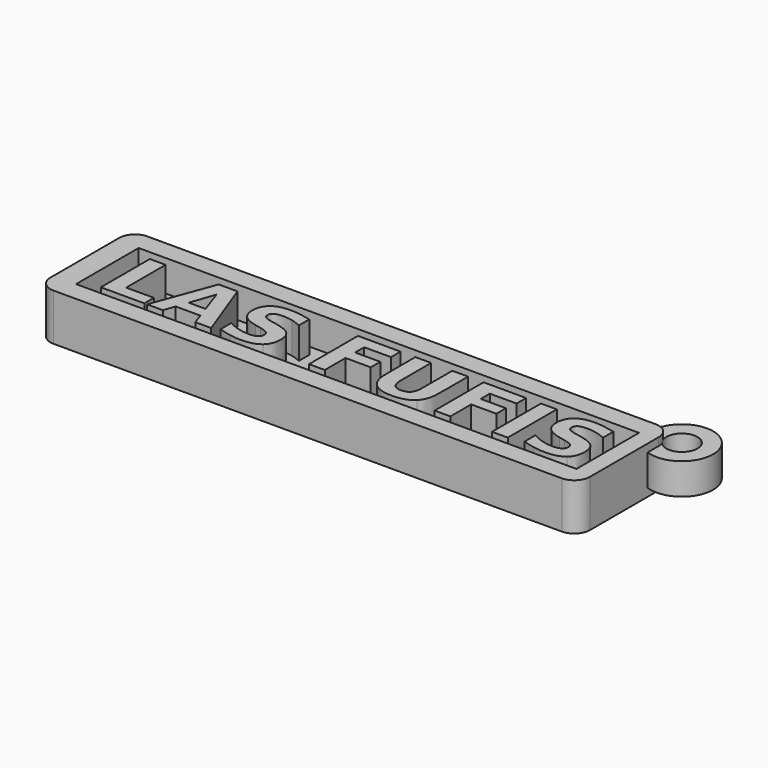
from build123d import *

# Parameters (mm, degrees)
CYLINDER001_R     = 2
CYLINDER001_DEPTH = 10
CYLINDER_R        = 4
CYLINDER_DEPTH    = 4
EXTRUDE002_DEPTH  = 4
EXTRUDE001_DEPTH  = 4
EXTRUDE003_DEPTH  = 4
EXTRUDE006_DEPTH  = 4
EXTRUDE004_DEPTH  = 4
EXTRUDE005_DEPTH  = 4
EXTRUDE007_DEPTH  = 4
EXTRUDE008_DEPTH  = 4
EXTRUDE_DEPTH     = 4
SKETCH_W          = 64
SKETCH_H          = 10
PAD_DEPTH         = 4
SKETCH001_W       = 69
SKETCH001_H       = 15
PAD001_DEPTH      = 6
FILLET_R          = 2
FILLET001_R       = 2


with BuildPart() as cilindro001:
    # Cylinder001 → Cylinder001 (new body)
    with BuildSketch(Plane.XY.offset(-3)):
        Circle(CYLINDER001_R)
    extrude(amount=CYLINDER001_DEPTH)


with BuildPart() as obj1:
    # Cylinder → Cylinder (new body)
    with BuildSketch(Plane.XY):
        Circle(CYLINDER_R)
    extrude(amount=CYLINDER_DEPTH)

    # Cut005: cut Cilindro001
    add(cilindro001.part, mode=Mode.SUBTRACT)


with BuildPart() as obj1_1:
    # Cut005 placement: moved
    add(obj1.part.moved(Location((41.3, 7.5, -1))))


with BuildPart() as extrude002:
    # path3343001 → Extrude002 (new body)
    with BuildSketch(Plane(origin=(-13.812976, 1.443679, 0), x_dir=(0, 1, 0), z_dir=(0, 0, 1))):
        with BuildLine():
            add(Edge.make_bspline(
                [(-1.557556, 1.072459), (-1.557556, -1.072459)],
                knots=[0, 0, 7.6001, 7.6001], degree=1))
            add(Edge.make_bspline(
                [(-1.557556, -1.072459), (1.557556, -0.002622)],
                knots=[0, 0, 11.6706, 11.6706], degree=1))
            add(Edge.make_bspline(
                [(1.557556, -0.002622), (-1.557556, 1.072459)],
                knots=[0, 0, 11.676648, 11.676648], degree=1))
        make_face()
    extrude(amount=EXTRUDE002_DEPTH)


with BuildPart() as cut:
    # path3343 → Extrude001 (new body)
    with BuildSketch(Plane(origin=(-13.812978, 0.921872, 0), x_dir=(0, -1, 0), z_dir=(0, 0, -1))):
        with BuildLine():
            add(Edge.make_bspline(
                [(2.488418, -1.581157), (2.488418, 1.575911)],
                knots=[0, 0, 11.18646, 11.18646], degree=1))
            add(Edge.make_bspline(
                [(2.488418, 1.575911), (3.914868, 2.074117)],
                knots=[0, 0, 5.353759, 5.353759], degree=1))
            add(Edge.make_bspline(
                [(3.914868, 2.074117), (3.914868, 4.103662)],
                knots=[0, 0, 7.1913, 7.1913], degree=1))
            add(Edge.make_bspline(
                [(3.914868, 4.103662), (-3.914868, 1.203566)],
                knots=[0, 0, 29.585092, 29.585092], degree=1))
            add(Edge.make_bspline(
                [(-3.914868, 1.203566), (-3.914868, -1.203566)],
                knots=[0, 0, 8.52921, 8.52921], degree=1))
            add(Edge.make_bspline(
                [(-3.914868, -1.203566), (3.914868, -4.103662)],
                knots=[0, 0, 29.585092, 29.585092], degree=1))
            add(Edge.make_bspline(
                [(3.914868, -4.103662), (3.914868, -2.07412)],
                knots=[0, 0, 7.19129, 7.19129], degree=1))
            add(Edge.make_bspline(
                [(3.914868, -2.07412), (2.488418, -1.581157)],
                knots=[0, 0, 5.347661, 5.347661], degree=1))
        make_face()
    extrude(amount=-EXTRUDE001_DEPTH)

    # Cut: cut Extrude002
    add(extrude002.part, mode=Mode.SUBTRACT)


with BuildPart() as extrude003:
    # path3345 → Extrude003 (new body)
    with BuildSketch(Plane(origin=(-5.802313, 0.916629, 0), x_dir=(0, -1, 0), z_dir=(0, 0, -1))):
        with BuildLine():
            add(Edge.make_bspline(
                [(-3.67363, -2.57495), (-2.016433, -2.57495)],
                knots=[0, 0, 5.87196, 5.87196], degree=1))
            add(Edge.make_bspline(
                [(-2.016433, -2.57495), (-2.304867, -1.929901), (-2.451707, -1.316318)],
                knots=[0, 0, 0, 1, 1, 1], degree=2))
            add(Edge.make_bspline(
                [(-2.451707, -1.316318), (-2.598547, -0.702736), (-2.598547, -0.157328)],
                knots=[0, 0, 0, 1, 1, 1], degree=2))
            add(Edge.make_bspline(
                [(-2.598547, -0.157328), (-2.598547, 0.566386), (-2.399264, 0.912509)],
                knots=[0, 0, 0, 1, 1, 1], degree=2))
            add(Edge.make_bspline(
                [(-2.399264, 0.912509), (-2.199981, 1.258632), (-1.780438, 1.258632)],
                knots=[0, 0, 0, 1, 1, 1], degree=2))
            add(Edge.make_bspline(
                [(-1.780438, 1.258632), (-1.46578, 1.258632), (-1.287475, 1.027881)],
                knots=[0, 0, 0, 1, 1, 1], degree=2))
            add(Edge.make_bspline(
                [(-1.287475, 1.027881), (-1.114414, 0.79189), (-0.988548, 0.178308)],
                knots=[0, 0, 0, 1, 1, 1], degree=2))
            add(Edge.make_bspline(
                [(-0.988548, 0.178308), (-0.815487, -0.681759)],
                knots=[0, 0, 3.108563, 3.108563], degree=1))
            add(Edge.make_bspline(
                [(-0.815487, -0.681759), (-0.553271, -1.987587), (-0.018356, -2.538239)],
                knots=[0, 0, 0, 1, 1, 1], degree=2))
            add(Edge.make_bspline(
                [(-0.018356, -2.538239), (0.516563, -3.088891), (1.502492, -3.088891)],
                knots=[0, 0, 0, 1, 1, 1], degree=2))
            add(Edge.make_bspline(
                [(1.502492, -3.088891), (2.797833, -3.088891), (3.432392, -2.317979)],
                knots=[0, 0, 0, 1, 1, 1], degree=2))
            add(Edge.make_bspline(
                [(3.432392, -2.317979), (4.061708, -1.552313), (4.061708, 0.026221)],
                knots=[0, 0, 0, 1, 1, 1], degree=2))
            add(Edge.make_bspline(
                [(4.061708, 0.026221), (4.061708, 0.770913), (3.920112, 1.520848)],
                knots=[0, 0, 0, 1, 1, 1], degree=2))
            add(Edge.make_bspline(
                [(3.920112, 1.520848), (3.778515, 2.270783), (3.500569, 3.020715)],
                knots=[0, 0, 0, 1, 1, 1], degree=2))
            add(Edge.make_bspline(
                [(3.500569, 3.020715), (1.796172, 3.020715)],
                knots=[0, 0, 6.0392, 6.0392], degree=1))
            add(Edge.make_bspline(
                [(1.796172, 3.020715), (2.194738, 2.270783), (2.399267, 1.57329)],
                knots=[0, 0, 0, 1, 1, 1], degree=2))
            add(Edge.make_bspline(
                [(2.399267, 1.57329), (2.59855, 0.870554), (2.59855, 0.22026)],
                knots=[0, 0, 0, 1, 1, 1], degree=2))
            add(Edge.make_bspline(
                [(2.59855, 0.22026), (2.59855, -0.440521), (2.37829, -0.791887)],
                knots=[0, 0, 0, 1, 1, 1], degree=2))
            add(Edge.make_bspline(
                [(2.37829, -0.791887), (2.158029, -1.143257), (1.748974, -1.143257)],
                knots=[0, 0, 0, 1, 1, 1], degree=2))
            add(Edge.make_bspline(
                [(1.748974, -1.143257), (1.381873, -1.143257), (1.18259, -0.902019)],
                knots=[0, 0, 0, 1, 1, 1], degree=2))
            add(Edge.make_bspline(
                [(1.18259, -0.902019), (0.983307, -0.666025), (0.825977, 0.047199)],
                knots=[0, 0, 0, 1, 1, 1], degree=2))
            add(Edge.make_bspline(
                [(0.825977, 0.047199), (0.652916, 0.828599)],
                knots=[0, 0, 2.835833, 2.835833], degree=1))
            add(Edge.make_bspline(
                [(0.652916, 0.828599), (0.40119, 2.003323), (-0.149462, 2.548729)],
                knots=[0, 0, 0, 1, 1, 1], degree=2))
            add(Edge.make_bspline(
                [(-0.149462, 2.548729), (-0.700114, 3.088891), (-1.633598, 3.088891)],
                knots=[0, 0, 0, 1, 1, 1], degree=2))
            add(Edge.make_bspline(
                [(-1.633598, 3.088891), (-2.803076, 3.088891), (-3.432392, 2.333712)],
                knots=[0, 0, 0, 1, 1, 1], degree=2))
            add(Edge.make_bspline(
                [(-3.432392, 2.333712), (-4.061708, 1.578534), (-4.061708, 0.162574)],
                knots=[0, 0, 0, 1, 1, 1], degree=2))
            add(Edge.make_bspline(
                [(-4.061708, 0.162574), (-4.061708, -0.482476), (-3.962064, -1.164234)],
                knots=[0, 0, 0, 1, 1, 1], degree=2))
            add(Edge.make_bspline(
                [(-3.962064, -1.164234), (-3.867669, -1.845993), (-3.67363, -2.57495)],
                knots=[0, 0, 0, 1, 1, 1], degree=2))
        make_face()
    extrude(amount=-EXTRUDE003_DEPTH)


with BuildPart() as extrude006:
    # path3351 → Extrude006 (new body)
    with BuildSketch(Plane(origin=(21.591268, 0.921872, 0), x_dir=(0, -1, 0), z_dir=(0, 0, -1))):
        with BuildLine():
            add(Edge.make_bspline(
                [(-3.914868, 2.724412), (-3.914868, -2.724412)],
                knots=[0, 0, 19.30686, 19.30686], degree=1))
            add(Edge.make_bspline(
                [(-3.914868, -2.724412), (-2.388777, -2.724412)],
                knots=[0, 0, 5.40741, 5.40741], degree=1))
            add(Edge.make_bspline(
                [(-2.388777, -2.724412), (-2.388777, 0.705358)],
                knots=[0, 0, 12.15273, 12.15273], degree=1))
            add(Edge.make_bspline(
                [(-2.388777, 0.705358), (-0.930862, 0.705358)],
                knots=[0, 0, 5.16584, 5.16584], degree=1))
            add(Edge.make_bspline(
                [(-0.930862, 0.705358), (-0.930862, -2.519886)],
                knots=[0, 0, 11.42803, 11.42803], degree=1))
            add(Edge.make_bspline(
                [(-0.930862, -2.519886), (0.595227, -2.519886)],
                knots=[0, 0, 5.4074, 5.4074], degree=1))
            add(Edge.make_bspline(
                [(0.595227, -2.519886), (0.595227, 0.705358)],
                knots=[0, 0, 11.42803, 11.42803], degree=1))
            add(Edge.make_bspline(
                [(0.595227, 0.705358), (3.914868, 0.705358)],
                knots=[0, 0, 11.76251, 11.76251], degree=1))
            add(Edge.make_bspline(
                [(3.914868, 0.705358), (3.914868, 2.724412)],
                knots=[0, 0, 7.15413, 7.15413], degree=1))
            add(Edge.make_bspline(
                [(3.914868, 2.724412), (-3.914868, 2.724412)],
                knots=[0, 0, 27.74316, 27.74316], degree=1))
        make_face()
    extrude(amount=-EXTRUDE006_DEPTH)


with BuildPart() as extrude004:
    # path3347 → Extrude004 (new body)
    with BuildSketch(Plane(origin=(5.522745, 0.921872, 0), x_dir=(0, -1, 0), z_dir=(0, 0, -1))):
        with BuildLine():
            add(Edge.make_bspline(
                [(-3.914868, 2.724413), (-3.914868, -2.724413)],
                knots=[0, 0, 19.30686, 19.30686], degree=1))
            add(Edge.make_bspline(
                [(-3.914868, -2.724413), (-2.388777, -2.724413)],
                knots=[0, 0, 5.40741, 5.40741], degree=1))
            add(Edge.make_bspline(
                [(-2.388777, -2.724413), (-2.388777, 0.705358)],
                knots=[0, 0, 12.15273, 12.15273], degree=1))
            add(Edge.make_bspline(
                [(-2.388777, 0.705358), (-0.930862, 0.705358)],
                knots=[0, 0, 5.16584, 5.16584], degree=1))
            add(Edge.make_bspline(
                [(-0.930862, 0.705358), (-0.930862, -2.519883)],
                knots=[0, 0, 11.42802, 11.42802], degree=1))
            add(Edge.make_bspline(
                [(-0.930862, -2.519883), (0.595227, -2.519883)],
                knots=[0, 0, 5.4074, 5.4074], degree=1))
            add(Edge.make_bspline(
                [(0.595227, -2.519883), (0.595227, 0.705358)],
                knots=[0, 0, 11.42802, 11.42802], degree=1))
            add(Edge.make_bspline(
                [(0.595227, 0.705358), (3.914868, 0.705358)],
                knots=[0, 0, 11.76251, 11.76251], degree=1))
            add(Edge.make_bspline(
                [(3.914868, 0.705358), (3.914868, 2.724413)],
                knots=[0, 0, 7.15413, 7.15413], degree=1))
            add(Edge.make_bspline(
                [(3.914868, 2.724413), (-3.914868, 2.724413)],
                knots=[0, 0, 27.74316, 27.74316], degree=1))
        make_face()
    extrude(amount=-EXTRUDE004_DEPTH)


with BuildPart() as extrude005:
    # path3349 → Extrude005 (new body)
    with BuildSketch(Plane(origin=(13.515053, 0.84583, 0), x_dir=(0, -1, 0), z_dir=(0, 0, -1))):
        with BuildLine():
            add(Edge.make_bspline(
                [(-3.99091, 3.374706), (-3.99091, 1.355652)],
                knots=[0, 0, 7.15413, 7.15413], degree=1))
            add(Edge.make_bspline(
                [(-3.99091, 1.355652), (0.702736, 1.355652)],
                knots=[0, 0, 16.63103, 16.63103], degree=1))
            add(Edge.make_bspline(
                [(0.702736, 1.355652), (1.672932, 1.355652), (2.092475, 1.040994)],
                knots=[0, 0, 0, 1, 1, 1], degree=2))
            add(Edge.make_bspline(
                [(2.092475, 1.040994), (2.506774, 0.721092), (2.506774, 0.002622)],
                knots=[0, 0, 0, 1, 1, 1], degree=2))
            add(Edge.make_bspline(
                [(2.506774, 0.002622), (2.506774, -0.721092), (2.092475, -1.03575)],
                knots=[0, 0, 0, 1, 1, 1], degree=2))
            add(Edge.make_bspline(
                [(2.092475, -1.03575), (1.672932, -1.355652), (0.702736, -1.355652)],
                knots=[0, 0, 0, 1, 1, 1], degree=2))
            add(Edge.make_bspline(
                [(0.702736, -1.355652), (-3.99091, -1.355652)],
                knots=[0, 0, 16.63103, 16.63103], degree=1))
            add(Edge.make_bspline(
                [(-3.99091, -1.355652), (-3.99091, -3.374706)],
                knots=[0, 0, 7.15413, 7.15413], degree=1))
            add(Edge.make_bspline(
                [(-3.99091, -3.374706), (0.702736, -3.374706)],
                knots=[0, 0, 16.63103, 16.63103], degree=1))
            add(Edge.make_bspline(
                [(0.702736, -3.374706), (2.365178, -3.374706), (3.178045, -2.540861)],
                knots=[0, 0, 0, 1, 1, 1], degree=2))
            add(Edge.make_bspline(
                [(3.178045, -2.540861), (3.99091, -1.707018), (3.99091, 0.002622)],
                knots=[0, 0, 0, 1, 1, 1], degree=2))
            add(Edge.make_bspline(
                [(3.99091, 0.002622), (3.99091, 1.707018), (3.178045, 2.540861)],
                knots=[0, 0, 0, 1, 1, 1], degree=2))
            add(Edge.make_bspline(
                [(3.178045, 2.540861), (2.365178, 3.374706), (0.702736, 3.374706)],
                knots=[0, 0, 0, 1, 1, 1], degree=2))
            add(Edge.make_bspline(
                [(0.702736, 3.374706), (-3.99091, 3.374706)],
                knots=[0, 0, 16.63103, 16.63103], degree=1))
        make_face()
    extrude(amount=-EXTRUDE005_DEPTH)


with BuildPart() as extrude007:
    # path3353 → Extrude007 (new body)
    with BuildSketch(Plane(origin=(27.218399, 0.921872, 0), x_dir=(0, -1, 0), z_dir=(0, 0, -1))):
        with BuildLine():
            add(Edge.make_bspline(
                [(-3.914868, 1.009527), (-3.914868, -1.009527)],
                knots=[0, 0, 7.154127, 7.154127], degree=1))
            add(Edge.make_bspline(
                [(-3.914868, -1.009527), (3.914868, -1.009527)],
                knots=[0, 0, 27.74316, 27.74316], degree=1))
            add(Edge.make_bspline(
                [(3.914868, -1.009527), (3.914868, 1.009527)],
                knots=[0, 0, 7.154127, 7.154127], degree=1))
            add(Edge.make_bspline(
                [(3.914868, 1.009527), (-3.914868, 1.009527)],
                knots=[0, 0, 27.74316, 27.74316], degree=1))
        make_face()
    extrude(amount=-EXTRUDE007_DEPTH)


with BuildPart() as extrude008:
    # path3355 → Extrude008 (new body)
    with BuildSketch(Plane(origin=(33.089393, 0.916629, 0), x_dir=(0, -1, 0), z_dir=(0, 0, -1))):
        with BuildLine():
            add(Edge.make_bspline(
                [(-3.67363, -2.574948), (-2.016433, -2.574948)],
                knots=[0, 0, 5.87196, 5.87196], degree=1))
            add(Edge.make_bspline(
                [(-2.016433, -2.574948), (-2.304867, -1.9299), (-2.451707, -1.316318)],
                knots=[0, 0, 0, 1, 1, 1], degree=2))
            add(Edge.make_bspline(
                [(-2.451707, -1.316318), (-2.598547, -0.702736), (-2.598547, -0.157328)],
                knots=[0, 0, 0, 1, 1, 1], degree=2))
            add(Edge.make_bspline(
                [(-2.598547, -0.157328), (-2.598547, 0.566386), (-2.399264, 0.912509)],
                knots=[0, 0, 0, 1, 1, 1], degree=2))
            add(Edge.make_bspline(
                [(-2.399264, 0.912509), (-2.199981, 1.258632), (-1.780438, 1.258632)],
                knots=[0, 0, 0, 1, 1, 1], degree=2))
            add(Edge.make_bspline(
                [(-1.780438, 1.258632), (-1.46578, 1.258632), (-1.287475, 1.027882)],
                knots=[0, 0, 0, 1, 1, 1], degree=2))
            add(Edge.make_bspline(
                [(-1.287475, 1.027882), (-1.114414, 0.79189), (-0.988548, 0.178308)],
                knots=[0, 0, 0, 1, 1, 1], degree=2))
            add(Edge.make_bspline(
                [(-0.988548, 0.178308), (-0.815487, -0.681759)],
                knots=[0, 0, 3.108563, 3.108563], degree=1))
            add(Edge.make_bspline(
                [(-0.815487, -0.681759), (-0.553271, -1.987587), (-0.018356, -2.538239)],
                knots=[0, 0, 0, 1, 1, 1], degree=2))
            add(Edge.make_bspline(
                [(-0.018356, -2.538239), (0.516563, -3.088891), (1.502492, -3.088891)],
                knots=[0, 0, 0, 1, 1, 1], degree=2))
            add(Edge.make_bspline(
                [(1.502492, -3.088891), (2.797833, -3.088891), (3.432392, -2.317979)],
                knots=[0, 0, 0, 1, 1, 1], degree=2))
            add(Edge.make_bspline(
                [(3.432392, -2.317979), (4.061708, -1.55231), (4.061708, 0.026221)],
                knots=[0, 0, 0, 1, 1, 1], degree=2))
            add(Edge.make_bspline(
                [(4.061708, 0.026221), (4.061708, 0.770913), (3.920112, 1.520848)],
                knots=[0, 0, 0, 1, 1, 1], degree=2))
            add(Edge.make_bspline(
                [(3.920112, 1.520848), (3.778515, 2.270783), (3.500569, 3.020715)],
                knots=[0, 0, 0, 1, 1, 1], degree=2))
            add(Edge.make_bspline(
                [(3.500569, 3.020715), (1.796172, 3.020715)],
                knots=[0, 0, 6.0392, 6.0392], degree=1))
            add(Edge.make_bspline(
                [(1.796172, 3.020715), (2.194738, 2.270783), (2.399267, 1.57329)],
                knots=[0, 0, 0, 1, 1, 1], degree=2))
            add(Edge.make_bspline(
                [(2.399267, 1.57329), (2.59855, 0.870554), (2.59855, 0.22026)],
                knots=[0, 0, 0, 1, 1, 1], degree=2))
            add(Edge.make_bspline(
                [(2.59855, 0.22026), (2.59855, -0.440521), (2.37829, -0.791887)],
                knots=[0, 0, 0, 1, 1, 1], degree=2))
            add(Edge.make_bspline(
                [(2.37829, -0.791887), (2.158029, -1.143257), (1.748974, -1.143257)],
                knots=[0, 0, 0, 1, 1, 1], degree=2))
            add(Edge.make_bspline(
                [(1.748974, -1.143257), (1.381873, -1.143257), (1.18259, -0.902019)],
                knots=[0, 0, 0, 1, 1, 1], degree=2))
            add(Edge.make_bspline(
                [(1.18259, -0.902019), (0.983307, -0.666025), (0.825977, 0.047199)],
                knots=[0, 0, 0, 1, 1, 1], degree=2))
            add(Edge.make_bspline(
                [(0.825977, 0.047199), (0.652916, 0.828599)],
                knots=[0, 0, 2.835833, 2.835833], degree=1))
            add(Edge.make_bspline(
                [(0.652916, 0.828599), (0.40119, 2.003323), (-0.149462, 2.548729)],
                knots=[0, 0, 0, 1, 1, 1], degree=2))
            add(Edge.make_bspline(
                [(-0.149462, 2.548729), (-0.700114, 3.088891), (-1.633598, 3.088891)],
                knots=[0, 0, 0, 1, 1, 1], degree=2))
            add(Edge.make_bspline(
                [(-1.633598, 3.088891), (-2.803076, 3.088891), (-3.432392, 2.333712)],
                knots=[0, 0, 0, 1, 1, 1], degree=2))
            add(Edge.make_bspline(
                [(-3.432392, 2.333712), (-4.061708, 1.578534), (-4.061708, 0.162574)],
                knots=[0, 0, 0, 1, 1, 1], degree=2))
            add(Edge.make_bspline(
                [(-4.061708, 0.162574), (-4.061708, -0.482476), (-3.962064, -1.164234)],
                knots=[0, 0, 0, 1, 1, 1], degree=2))
            add(Edge.make_bspline(
                [(-3.962064, -1.164234), (-3.867669, -1.845993), (-3.67363, -2.574948)],
                knots=[0, 0, 0, 1, 1, 1], degree=2))
        make_face()
    extrude(amount=-EXTRUDE008_DEPTH)


with BuildPart() as obj2:
    # path3341 → Extrude (new body)
    with BuildSketch(Plane(origin=(-21.039618, 0.921872, 0), x_dir=(0, -1, 0), z_dir=(0, 0, -1))):
        with BuildLine():
            add(Edge.make_bspline(
                [(-3.914868, 2.782099), (-3.914868, 0.763044)],
                knots=[0, 0, 7.15413, 7.15413], degree=1))
            add(Edge.make_bspline(
                [(-3.914868, 0.763044), (2.388777, 0.763044)],
                knots=[0, 0, 22.33575, 22.33575], degree=1))
            add(Edge.make_bspline(
                [(2.388777, 0.763044), (2.388777, -2.782099)],
                knots=[0, 0, 12.56153, 12.56153], degree=1))
            add(Edge.make_bspline(
                [(2.388777, -2.782099), (3.914868, -2.782099)],
                knots=[0, 0, 5.40741, 5.40741], degree=1))
            add(Edge.make_bspline(
                [(3.914868, -2.782099), (3.914868, 2.782099)],
                knots=[0, 0, 19.71566, 19.71566], degree=1))
            add(Edge.make_bspline(
                [(3.914868, 2.782099), (-3.914868, 2.782099)],
                knots=[0, 0, 27.74316, 27.74316], degree=1))
        make_face()
    extrude(amount=-EXTRUDE_DEPTH)

    # Fusion: union Cut, Extrude003, Extrude006, Extrude004, Extrude005, Extrude007, Extrude008
    add(cut.part)
    add(extrude003.part)
    add(extrude006.part)
    add(extrude004.part)
    add(extrude005.part)
    add(extrude007.part)
    add(extrude008.part)


with BuildPart() as obj2_1:
    # Fusion placement: moved
    add(obj2.part.moved(Location((0, -1, 0))))


with BuildPart() as pad:
    # Sketch → Pad (new body)
    with BuildSketch(Plane.XY):
        with Locations((5.818163, 0)):
            Rectangle(SKETCH_W, SKETCH_H)
    extrude(amount=PAD_DEPTH)


with BuildPart() as fusion001:
    # Sketch001 → Pad001 (new body)
    with BuildSketch(Plane.XY.offset(-2)):
        with Locations((5.436984, 0)):
            Rectangle(SKETCH001_W, SKETCH001_H)
    extrude(amount=PAD001_DEPTH)

    # Cut001: cut Pad
    add(pad.part, mode=Mode.SUBTRACT)

    # Fillet
    fillet_edges = [fusion001.edges().sort_by_distance(p)[0] for p in [
        (-29.063016, 7.5, 1),
        (-29.063016, -7.5, 1),
        (39.936984, -7.5, 1),
    ]]
    fillet(fillet_edges, radius=FILLET_R)

    # Fillet001
    fillet001_edges = [fusion001.edges().sort_by_distance(p)[0] for p in [
        (39.936984, 7.5, 1),
    ]]
    fillet(fillet001_edges, radius=FILLET001_R)

    # Fusion001: union obj1, obj2
    add(obj1_1.part)
    add(obj2_1.part)


solid = fusion001.part
